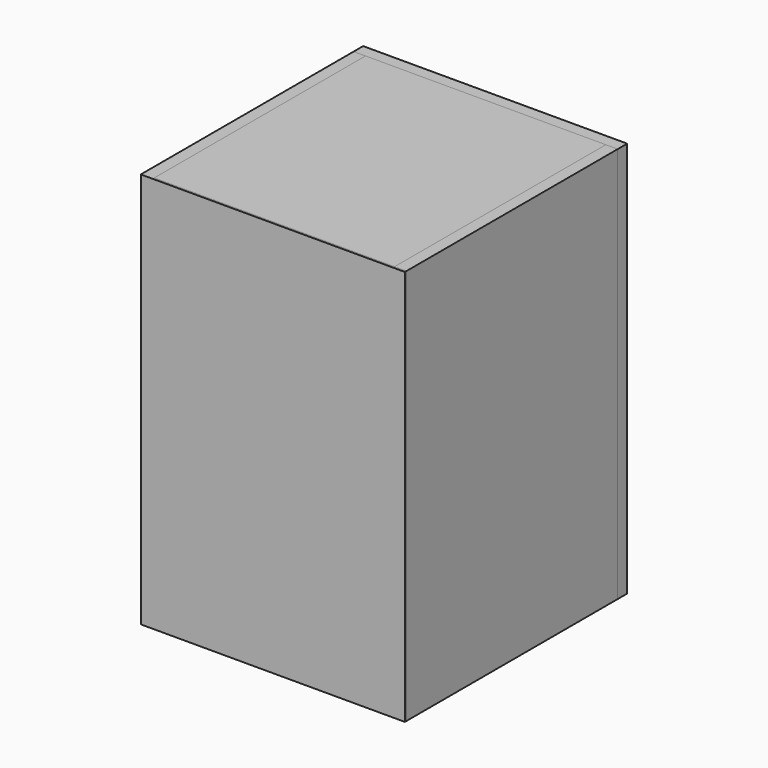
from build123d import *

# Parameters (mm, degrees)
F0_W      = 200
F0_H      = 300
F1_DEPTH  = 1.5
F2_W      = 9
F2_H      = 300
F3_DEPTH  = 200
F5_DEPTH  = 12
F7_DEPTH  = 182
F8_W      = 46.3780984282
F8_H      = 25.1142808329
F9_DEPTH  = 5
F10_W     = 200
F10_H     = 9
F11_DEPTH = 182
F12_W     = 200
F12_H     = 9
F13_DEPTH = 182
F14_W     = 200
F14_H     = 300
F15_DEPTH = 9
F16_W     = 200
F16_H     = 300
F17_DEPTH = 9
F18_R     = 37.1285508671
F19_DEPTH = 9
F20_W     = 39.7629290819
F20_H     = 142.5646618009
F21_DEPTH = 10
F22_W     = 43.1573316455
F22_H     = 139.1702704132
F23_DEPTH = 10


with BuildPart() as f1:
    # F0 (on Front) → F1 (new body)
    with BuildSketch(Plane.XZ):
        with Locations((100, 150)):
            Rectangle(F0_W, F0_H)
    extrude(amount=F1_DEPTH)

    # F2 (on face) → F3 (join)
    with BuildSketch(Plane(origin=(0, 0, 0), x_dir=(-1, 0, 0), z_dir=(0, 1, 0))):
        with Locations((-4.5, 150)):
            Rectangle(F2_W, F2_H)
    extrude(amount=F3_DEPTH)


with BuildPart() as f5:
    # F4 (on face) → F5 (new body)
    with BuildSketch(Plane.YZ.offset(9)):
        Polygon((34.0634658933, 105.1124706864), (0, 130.6207180023), (0, 77.5219127536), align=None)
    extrude(amount=F5_DEPTH)


with BuildPart() as f7:
    # F6 (on face) → F7 (new body)
    with BuildSketch(Plane.YZ.offset(9)):
        Polygon((0, 130.56217134), (34.0634658933, 105.1124706864), (38.1676233374, 108.8311001658), (4.1041574441, 134.2808008194), align=None)
    extrude(amount=F7_DEPTH)


with BuildPart() as f9:
    # F8 (on face) → F9 (new body)
    with BuildSketch(Plane(origin=(0, 65.8553375905, 88.1448892638), x_dir=(1, 0, 0), z_dir=(0, 0.5985254585, 0.8011037858))):
        with Locations((98.7963713706, -47.1190969879)):
            Rectangle(F8_W, F8_H)
    extrude(amount=F9_DEPTH)


with BuildPart() as f11:
    # F10 (on face) → F11 (new body)
    with BuildSketch(Plane.YZ.offset(9)):
        with Locations((100, 295.5)):
            Rectangle(F10_W, F10_H)
    extrude(amount=F11_DEPTH)


with BuildPart() as f13:
    # F12 (on face) → F13 (new body)
    with BuildSketch(Plane.YZ.offset(9)):
        with Locations((100, 4.5)):
            Rectangle(F12_W, F12_H)
    extrude(amount=F13_DEPTH)


with BuildPart() as f15:
    # F14 (on face) → F15 (new body)
    with BuildSketch(Plane.YZ.offset(191)):
        with Locations((100, 150)):
            Rectangle(F14_W, F14_H)
    extrude(amount=F15_DEPTH)


with BuildPart() as f17:
    # F16 (on face) → F17 (new body)
    with BuildSketch(Plane(origin=(0, 200, 0), x_dir=(-1, 0, 0), z_dir=(0, 1, 0))):
        with Locations((-100, 150)):
            Rectangle(F16_W, F16_H)
    extrude(amount=F17_DEPTH)

    # F18 (on face) → F19 (cut)
    with BuildSketch(Plane(origin=(0, 209, 0), x_dir=(-1, 0, 0), z_dir=(0, 1, 0))):
        with Locations((-108.4143146873, 90.0066271424)):
            Circle(F18_R)
    extrude(amount=-F19_DEPTH, mode=Mode.SUBTRACT)


with BuildPart() as f21:
    # F20 (on face) → F21 (new body)
    with BuildSketch(Plane(origin=(0, 0, 0), x_dir=(1, 0, 0), z_dir=(0, 0, -1))):
        with Locations((161.907337606, -93.6702601612)):
            Rectangle(F20_W, F20_H)
    extrude(amount=F21_DEPTH)


with BuildPart() as f23:
    # F22 (on face) → F23 (new body)
    with BuildSketch(Plane(origin=(0, 0, 0), x_dir=(1, 0, 0), z_dir=(0, 0, -1))):
        with Locations((44.4398485124, -96.1144361645)):
            Rectangle(F22_W, F22_H)
    extrude(amount=F23_DEPTH)


solid = Compound([f1.part, f5.part, f7.part, f9.part, f11.part, f13.part, f15.part, f17.part, f21.part, f23.part])
